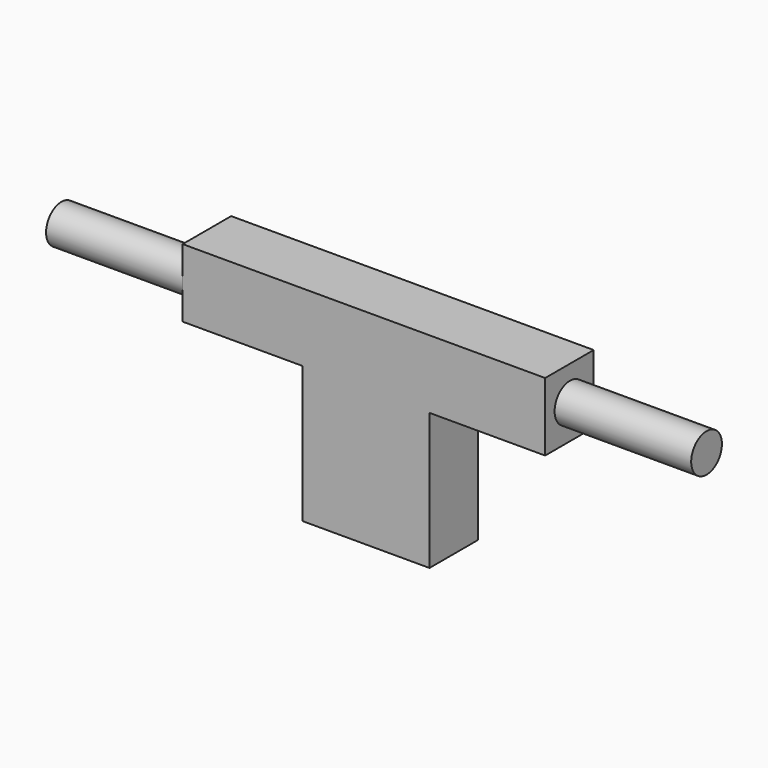
from build123d import *

# Parameters (mm, degrees)
F0_W     = 23.6095096916
F0_H     = 11.28009893
F1_DEPTH = 25.4
F2_W     = 67.4182642251
F2_H     = 11.28009893
F3_DEPTH = 12.7
F4_R     = 3.5729490202
F5_DEPTH = 25.4
F6_R     = 3.5729545
F7_DEPTH = 25.4


with BuildPart() as f1:
    # F0 (on Top) → F1 (new body)
    with BuildSketch(Plane.XY):
        with Locations((11.8047548458, -5.640049465)):
            Rectangle(F0_W, F0_H)
    extrude(amount=F1_DEPTH)

    # F2 (on face) → F3 (join)
    with BuildSketch(Plane.XY.offset(25.4)):
        with Locations((11.4112636074, -5.640049465)):
            Rectangle(F2_W, F2_H)
    extrude(amount=F3_DEPTH)

    # F4 (on face) → F5 (join)
    with BuildSketch(Plane.YZ.offset(45.12039572)):
        with Locations((-5.5088857189, 31.75)):
            Circle(F4_R)
    extrude(amount=F5_DEPTH)

    # F6 (on face) → F7 (join)
    with BuildSketch(Plane(origin=(-22.2978685051, 0, 0), x_dir=(0, -1, 0), z_dir=(-1, 0, 0))):
        with Locations((7.70714443, 31.75)):
            Circle(F6_R)
    extrude(amount=F7_DEPTH)


solid = f1.part
